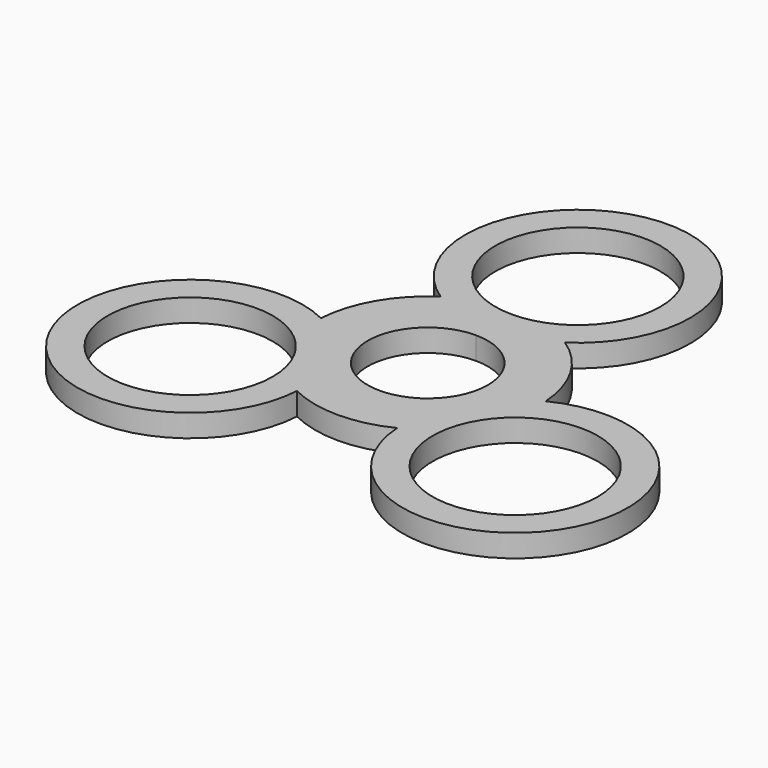
from build123d import *

# Parameters (mm, degrees)
F0_R     = 11
F1_DEPTH = 3


with BuildPart() as f1:
    # F0 (on Top) → F1 (new body)
    with BuildSketch(Plane.XY):
        with BuildLine():
            ThreePointArc((0, 8), (-5.656854, -5.656854), (8, 0))
            ThreePointArc((8, 0), (5.656854, 5.656854), (0, 8))
        make_face()
        with BuildLine():
            ThreePointArc((11, 25), (-7.778175, 32.778175), (0, 14))
            ThreePointArc((0, 14), (7.778175, 17.221825), (11, 25))
        make_face()
        with BuildLine():
            ThreePointArc((8.291562, 12.5), (0, 40), (-8.291562, 12.5))
            ThreePointArc((-8.291562, 12.5), (-12.990381, 7.5), (-14.971099, 0.930703))
            ThreePointArc((-14.971099, 0.930703), (-34.641016, -20), (-6.679537, -13.430703))
            ThreePointArc((-6.679537, -13.430703), (0, -15), (6.679537, -13.430703))
            ThreePointArc((6.679537, -13.430703), (34.641016, -20), (14.971099, 0.930703))
            ThreePointArc((14.971099, 0.930703), (12.990381, 7.5), (8.291562, 12.5))
        make_face()
        with Locations((-21.650635, -12.5)):
            Circle(F0_R, mode=Mode.SUBTRACT)
        with Locations((21.650635, -12.5)):
            Circle(F0_R, mode=Mode.SUBTRACT)
        with BuildLine():
            ThreePointArc((0, 8), (5.656854, 5.656854), (8, 0))
            ThreePointArc((8, 0), (-5.656854, -5.656854), (0, 8))
        make_face(mode=Mode.SUBTRACT)
        with BuildLine():
            ThreePointArc((11, 25), (7.778175, 17.221825), (0, 14))
            ThreePointArc((0, 14), (-7.778175, 32.778175), (11, 25))
        make_face(mode=Mode.SUBTRACT)
    extrude(amount=F1_DEPTH)


solid = f1.part
